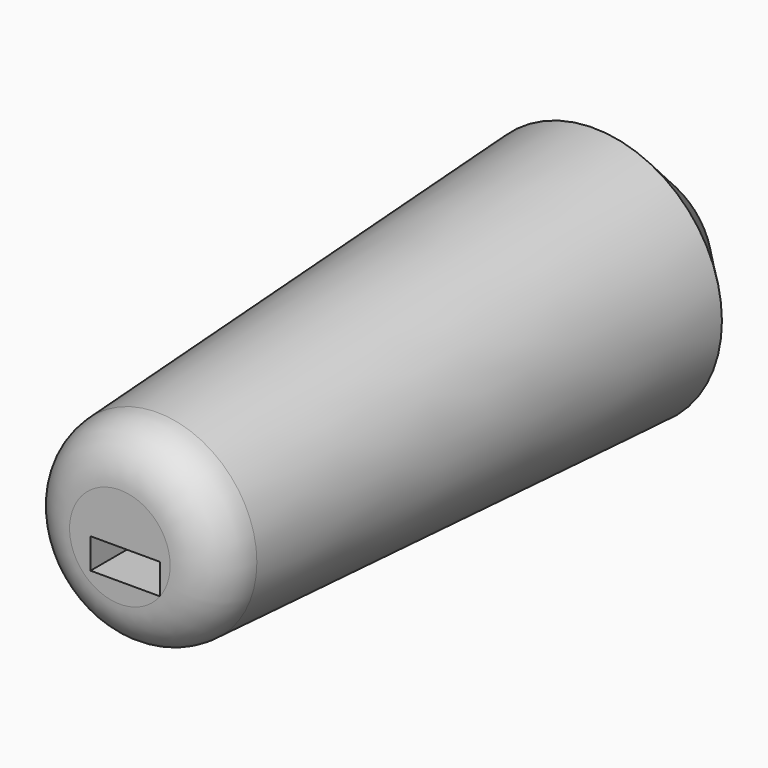
from build123d import *

# Parameters (mm, degrees)
F0_R     = 25.4
F1_DEPTH = 127
F1_TAPER = 3
F2_R     = 9.525
F3_SIZE  = 12.7
F4_W     = 13.4048998849
F4_H     = 5.8565368653
F5_DEPTH = 127.001


with BuildPart() as f1:
    # F0 (on Front) → F1 (new body)
    with BuildSketch(Plane.XZ):
        Circle(F0_R)
    extrude(amount=F1_DEPTH, taper=F1_TAPER)

    # F2
    f2_edges = [f1.edges().sort_by_distance(p)[0] for p in [
        (-18.744212, -127, 0),
    ]]
    fillet(f2_edges, radius=F2_R)

    # F3
    f3_edges = [f1.edges().sort_by_distance(p)[0] for p in [
        (-25.4, 0, 0),
    ]]
    chamfer(f3_edges, length=F3_SIZE)

    # F4 (on face) → F5 (cut, through all)
    with BuildSketch(Plane.XZ.offset(127)):
        with Locations((1.0366908521, -2.9282684326)):
            Rectangle(F4_W, F4_H)
    extrude(amount=-F5_DEPTH, mode=Mode.SUBTRACT)


solid = f1.part
